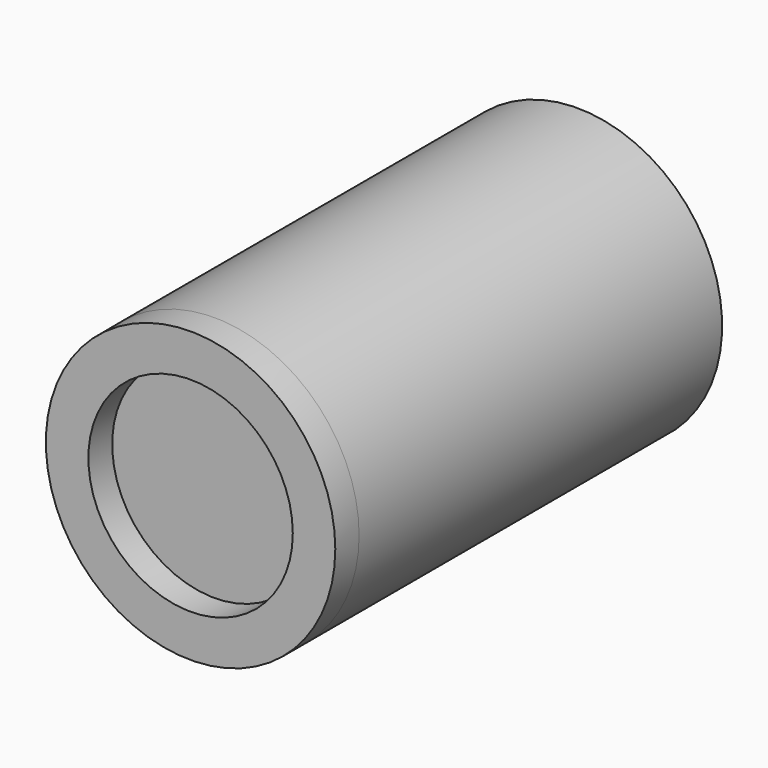
from build123d import *

# Parameters (mm, degrees)
F0_R     = 48.601761
F0_R_2   = 34.327822
F1_DEPTH = 10
F2_R     = 48.601761
F2_R_2   = 34.327822
F3_DEPTH = 152.4


with BuildPart() as f1:
    # F0 (on Front) → F1 (new body)
    with BuildSketch(Plane.XZ):
        Circle(F0_R)
        Circle(F0_R_2, mode=Mode.SUBTRACT)
    extrude(amount=F1_DEPTH)

    # F2 (on face) → F3 (join)
    with BuildSketch(Plane(origin=(0, 0, 0), x_dir=(-1, 0, 0), z_dir=(0, 1, 0))):
        Circle(F2_R)
        Circle(F2_R_2, mode=Mode.SUBTRACT)
        Circle(F2_R_2)
    extrude(amount=F3_DEPTH)


solid = f1.part
